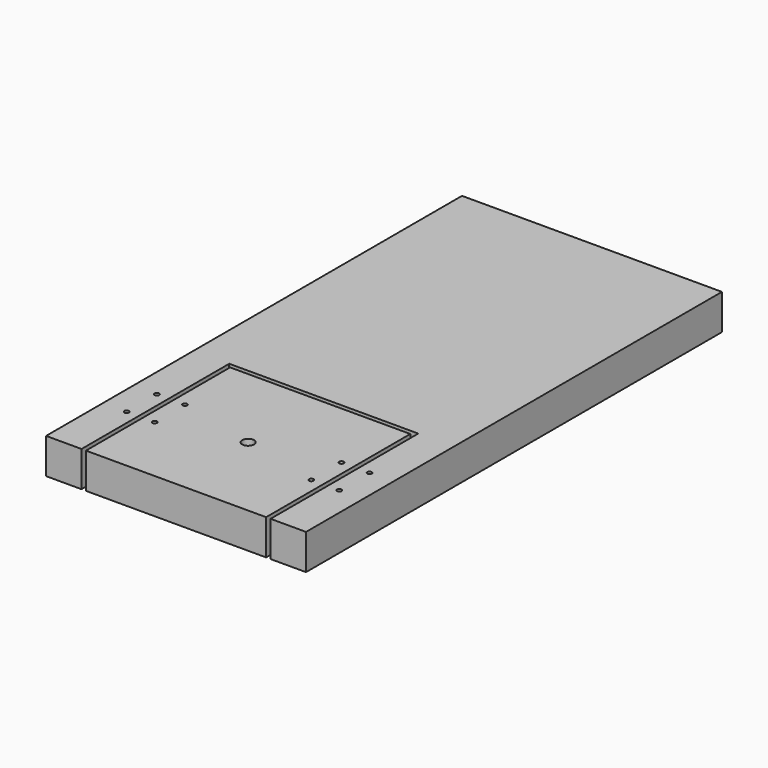
from build123d import *

# Parameters (mm, degrees)
F1_DEPTH = 19.05
F2_D     = 2.4384
F2_2_D   = 2.4384
F3_D     = 6.35


with BuildPart() as f1:
    # F0 (on Top) → F1 (new body)
    with BuildSketch(Plane.XY):
        Polygon((50.8, -139.7), (69.85, -139.7), (69.85, 139.7), (-69.85, 139.7), (-69.85, -139.7), (-50.8, -139.7), (-50.8, -40.48125), (50.8, -40.48125), align=None)
    extrude(amount=F1_DEPTH)

    # F2 (through all)
    with Locations(Plane(origin=(0, 0, 0), x_dir=(1, 0, 0), z_dir=(0, 0, -1))):
        with Locations((-57.15, 81.12125), (-57.15, 101.44125), (-42.06875, 101.44125), (-42.06875, 81.12125), (42.06875, 81.12125), (57.15, 81.12125), (57.15, 101.44125), (42.06875, 101.44125)):
            Hole(F2_D / 2)


with BuildPart() as f1b:
    # F0 (on Top) → F1, piece 2 (new body)
    with BuildSketch(Plane.XY):
        Polygon((48.41875, -42.8625), (-48.41875, -139.7), (48.41875, -139.7), align=None)
        Polygon((-48.41875, -42.8625), (-48.41875, -139.7), (48.41875, -42.8625), align=None)
    extrude(amount=F1_DEPTH)

    # F2#2 (through all)
    with Locations(Plane(origin=(0, 0, 0), x_dir=(1, 0, 0), z_dir=(0, 0, -1))):
        with Locations((-57.15, 81.12125), (-57.15, 101.44125), (-42.06875, 101.44125), (-42.06875, 81.12125), (42.06875, 81.12125), (57.15, 81.12125), (57.15, 101.44125), (42.06875, 101.44125)):
            Hole(F2_2_D / 2)

    # F3 (through all)
    with Locations(Plane(origin=(0, 0, 0), x_dir=(1, 0, 0), z_dir=(0, 0, -1))):
        with Locations((0, 91.28125)):
            Hole(F3_D / 2)


solid = Compound([f1.part, f1b.part])
